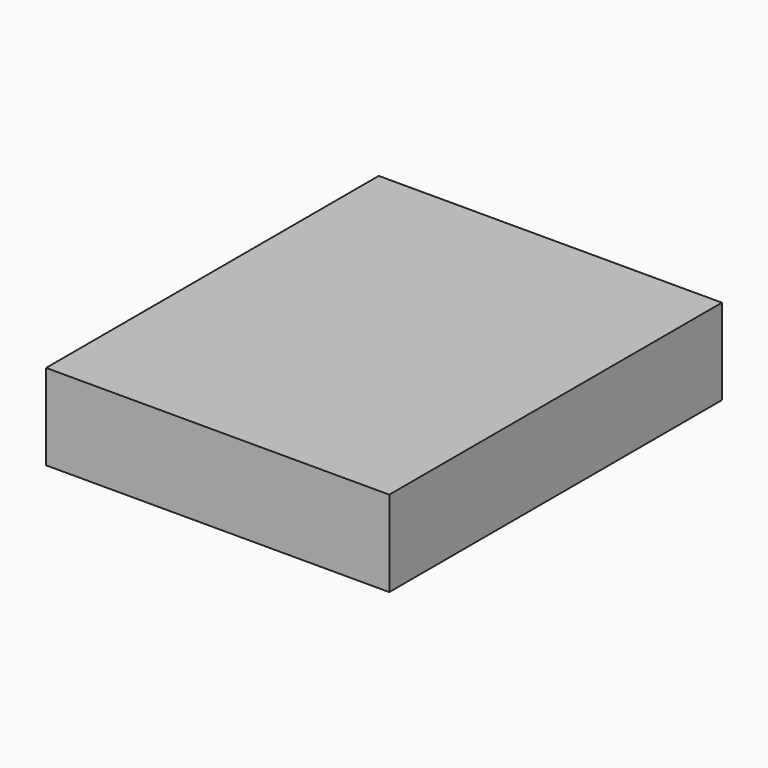
from build123d import *

# Parameters (mm, degrees)
F0_W     = 630
F0_H     = 520
F1_DEPTH = 130
F2_ANGLE = 90


with BuildPart() as f1:
    # F0 (on Top) → F1 (new body)
    with BuildSketch(Plane.XY):
        Rectangle(F0_W, F0_H)
    extrude(amount=F1_DEPTH)


with BuildPart() as f1_1:
    # F2: moved
    add(f1.part.rotate(Axis((315, 260, 65), (0, 0, -1)), F2_ANGLE))


solid = f1_1.part
